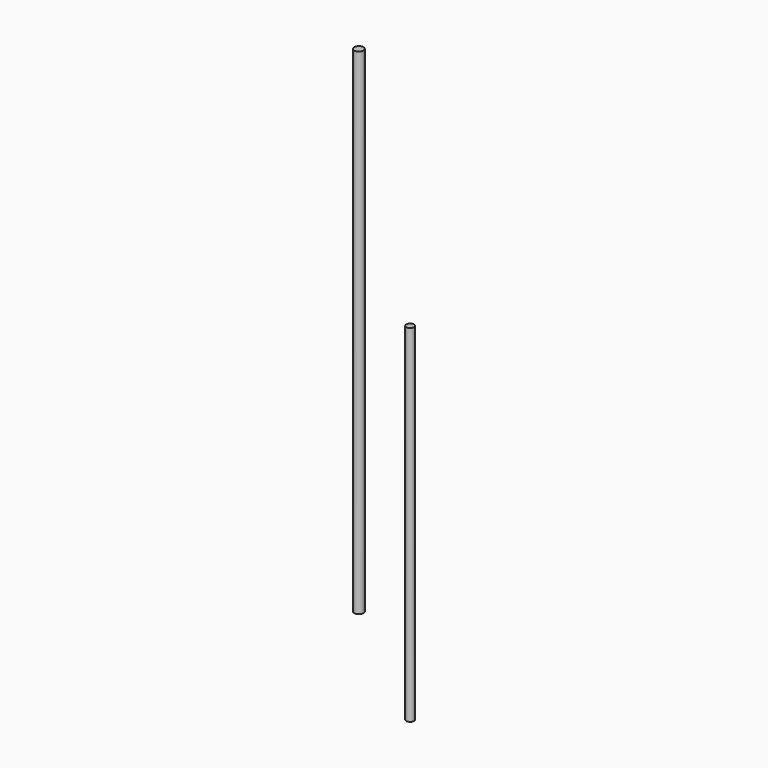
from build123d import *

# Parameters (mm, degrees)
F0_R          = 7.9375
F1_DEPTH      = 355.6
F1_DEPTH_BACK = 355.6
F2_R          = 9.525
F3_DEPTH      = 863.6
F3_DEPTH_BACK = 152.4


with BuildPart() as f1:
    # F0 (on Top) → F1 (new body, two sides)
    with BuildSketch(Plane.XY) as f1_sk:
        Circle(F0_R)
    extrude(amount=F1_DEPTH)
    extrude(f1_sk.sketch, amount=-F1_DEPTH_BACK)


with BuildPart() as f3:
    # F2 (on Top) → F3 (new body, two sides)
    with BuildSketch(Plane.XY) as f3_sk:
        with Locations((-54.664239, -63.058726)):
            Circle(F2_R)
    extrude(amount=F3_DEPTH)
    extrude(f3_sk.sketch, amount=-F3_DEPTH_BACK)


solid = Compound([f1.part, f3.part])
